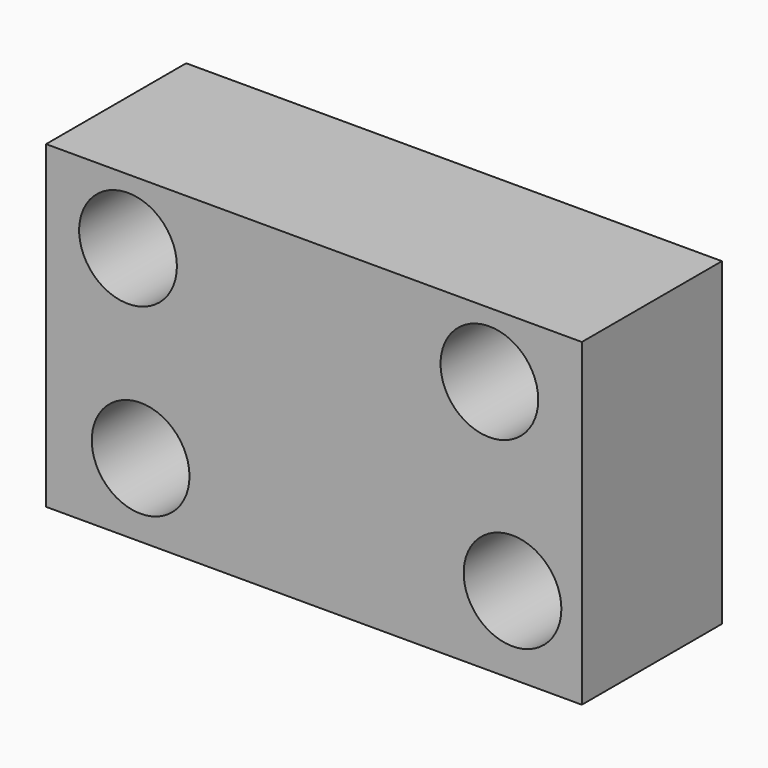
from build123d import *

# Parameters (mm, degrees)
F0_W     = 77.724002
F0_H     = 46.329598
F0_R     = 7.0866
F0_R_2   = 7.089467
F1_DEPTH = 25.4


with BuildPart() as f1:
    # F0 (on Front) → F1 (new body)
    with BuildSketch(Plane.XZ):
        Rectangle(F0_W, F0_H)
        with Locations((-25.146, -12.496799)):
            Circle(F0_R, mode=Mode.SUBTRACT)
        with Locations((28.803604, -11.8872)):
            Circle(F0_R, mode=Mode.SUBTRACT)
        with Locations((-26.974799, 13.716)):
            Circle(F0_R_2, mode=Mode.SUBTRACT)
        with Locations((25.450798, 13.716)):
            Circle(F0_R, mode=Mode.SUBTRACT)
    extrude(amount=F1_DEPTH)


solid = f1.part
